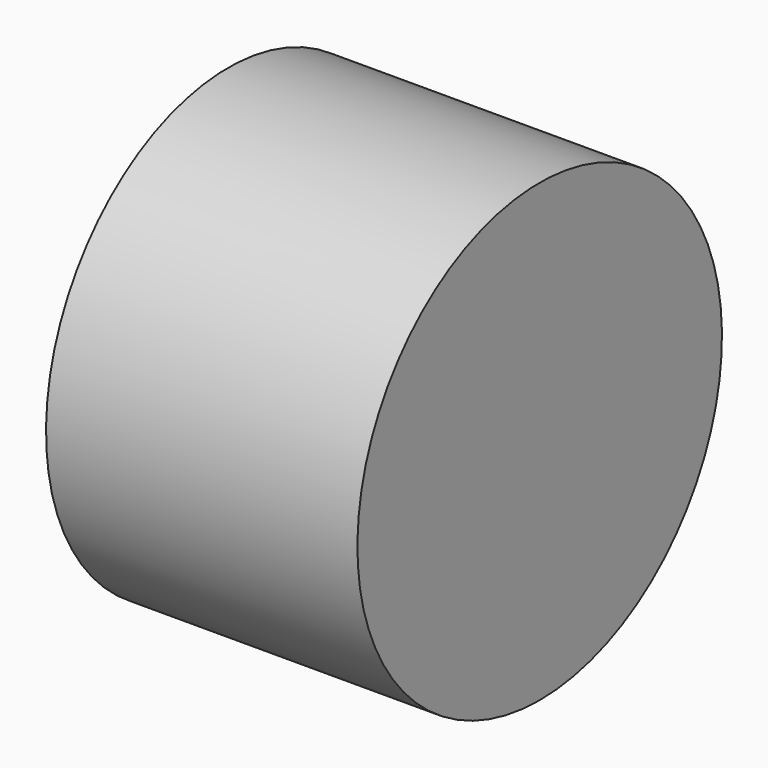
from build123d import *

# Parameters (mm, degrees)
CYLINDER059_R     = 1.25
CYLINDER059_DEPTH = 5
CYLINDER035_R     = 3
CYLINDER035_DEPTH = 4.1


with BuildPart() as b_w006:
    # Cylinder059 → Cylinder059 (new body)
    with BuildSketch(Plane(origin=(2, 6, 26), x_dir=(0, 0, 1), z_dir=(-1, 0, 0))):
        Circle(CYLINDER059_R)
    extrude(amount=CYLINDER059_DEPTH)


with BuildPart() as cut029:
    # Cylinder035 → Cylinder035 (new body)
    with BuildSketch(Plane(origin=(-1, 6, 26), x_dir=(0, 0, -1), z_dir=(1, 0, 0))):
        Circle(CYLINDER035_R)
    extrude(amount=CYLINDER035_DEPTH)

    # Cut029: cut B_W006
    add(b_w006.part, mode=Mode.SUBTRACT)


solid = cut029.part
